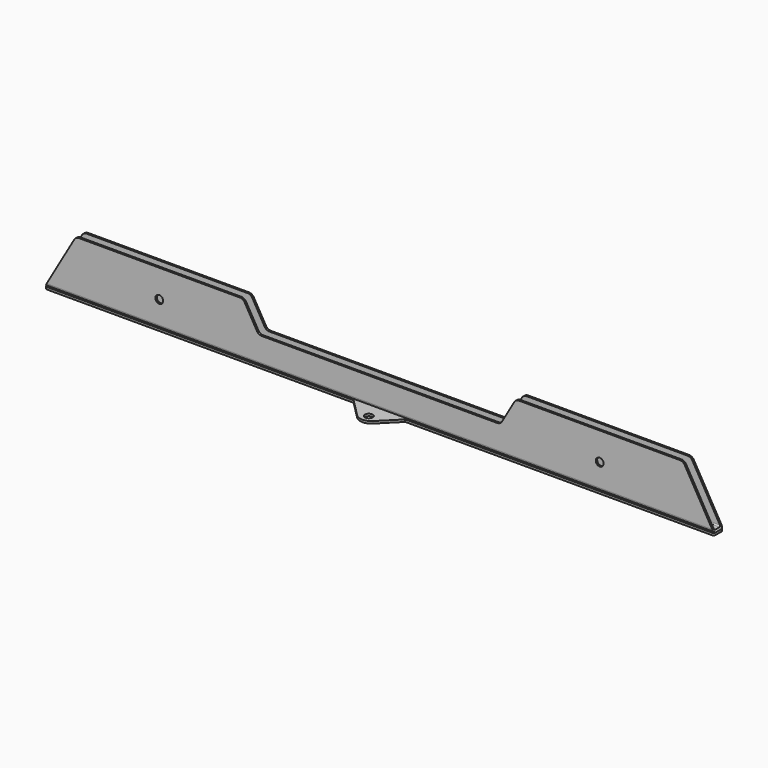
from build123d import *

# Parameters (mm, degrees)
F0_R      = 3.5
F1_DEPTH  = 2
F3_DEPTH  = 5.1
F4_R      = 2.6
F5_R      = 5
F6_T      = -1.6
F8_DEPTH  = 2
F9_R      = 3.5
F10_DEPTH = 29.2431356237


with BuildPart() as f1:
    # F0 (on Top) → F1 (new body)
    with BuildSketch(Plane.XY):
        with BuildLine():
            Line((-7.0710678119, 21.2132034356), (-21.2132034356, 7.0710678119))
            ThreePointArc((-21.2132034356, 7.0710678119), (-24.1421356237, 0), (-21.2132034356, -7.0710678119))
            Line((-21.2132034356, -7.0710678119), (-7.0710678119, -21.2132034356))
            ThreePointArc((-7.0710678119, -21.2132034356), (0, -24.1421356237), (7.0710678119, -21.2132034356))
            Line((7.0710678119, -21.2132034356), (21.2132034356, -7.0710678119))
            ThreePointArc((21.2132034356, -7.0710678119), (24.1421356237, 0), (21.2132034356, 7.0710678119))
            Line((21.2132034356, 7.0710678119), (7.0710678119, 21.2132034356))
            ThreePointArc((7.0710678119, 21.2132034356), (0, 24.1421356237), (-7.0710678119, 21.2132034356))
        make_face()
        with Locations((0, -16.9705627485)):
            Circle(F0_R, mode=Mode.SUBTRACT)
        with Locations((-16.9705627485, 0)):
            Circle(F0_R, mode=Mode.SUBTRACT)
        with Locations((16.9705627485, 0)):
            Circle(F0_R, mode=Mode.SUBTRACT)
        with Locations((0, 16.9705627485)):
            Circle(F0_R, mode=Mode.SUBTRACT)
    extrude(amount=F1_DEPTH)



with BuildPart() as f3:
    # F2 (on Front) → F3 (new body, symmetric)
    with BuildSketch(Plane.XZ):
        Polygon((-300, 2), (300, 2), (272.3112537903, 49.9583152331), (122.3112537903, 49.9583152331), (108.4668806854, 25.9791576166), (0, 25.9791576166), (-108.4668806854, 25.9791576166), (-122.3112537903, 49.9583152331), (-272.3112537903, 49.9583152331), align=None)
    extrude(amount=F3_DEPTH, both=True)

    # F4
    f4_edges = [f3.edges().sort_by_distance(p)[0] for p in [
        (0, -5.1, 2),
        (0, 5.1, 2),
    ]]
    fillet(f4_edges, radius=F4_R)

    # F5
    f5_edges = [f3.edges().sort_by_distance(p)[0] for p in [
        (-272.311254, 0, 49.958315),
        (-122.311254, 0, 49.958315),
        (-108.466881, 0, 25.979158),
        (122.311254, 0, 49.958315),
        (108.466881, 0, 25.979158),
        (272.311254, 0, 49.958315),
    ]]
    fillet(f5_edges, radius=F5_R)

    # F6
    f6_openings = [f3.faces().sort_by_distance(p)[0] for p in [
        (-286.796795, 0, 24.868623),
        (-271.924502, 0, 49.288442),
        (-197.311254, 0, 49.958315),
        (0, 0, 25.979158),
        (-108.080129, 0, 26.649031),
        (-115.389067, 0, 37.968736),
        (-122.698005, 0, 49.288442),
        (108.080129, 0, 26.649031),
        (115.389067, 0, 37.968736),
        (122.698005, 0, 49.288442),
        (197.311254, 0, 49.958315),
        (271.924502, 0, 49.288442),
        (286.796795, 0, 24.868623),
    ]]
    offset(amount=F6_T, openings=f6_openings)


with BuildPart() as f1_1:
    add(f1.part)

    add(f3.part)  # F8 merges F3
    # F7 (on face) → F8 (join, through all)
    with BuildSketch(Plane(origin=(0, 0, 0), x_dir=(1, 0, 0), z_dir=(0, 0, -1))):
        with BuildLine():
            Line((-298, -5.1), (298, -5.1))
            ThreePointArc((298, -5.1), (299.4142135624, -4.5142135624), (300, -3.1))
            Line((300, -3.1), (300, 3.1))
            ThreePointArc((300, 3.1), (299.4142135624, 4.5142135624), (298, 5.1))
            Line((298, 5.1), (-298, 5.1))
            ThreePointArc((-298, 5.1), (-299.4142135624, 4.5142135624), (-300, 3.1))
            Line((-300, 3.1), (-300, -3.1))
            ThreePointArc((-300, -3.1), (-299.4142135624, -4.5142135624), (-298, -5.1))
        make_face()
    extrude(amount=-F8_DEPTH)

    # F9 (on face) → F10 (cut, through all)
    with BuildSketch(Plane.XZ.offset(5.1)):
        with Locations((-197.5, 24.9583152331)):
            Circle(F9_R)
        with Locations((197.5, 24.9583152331)):
            Circle(F9_R)
    extrude(amount=-F10_DEPTH, mode=Mode.SUBTRACT)


solid = f1_1.part
